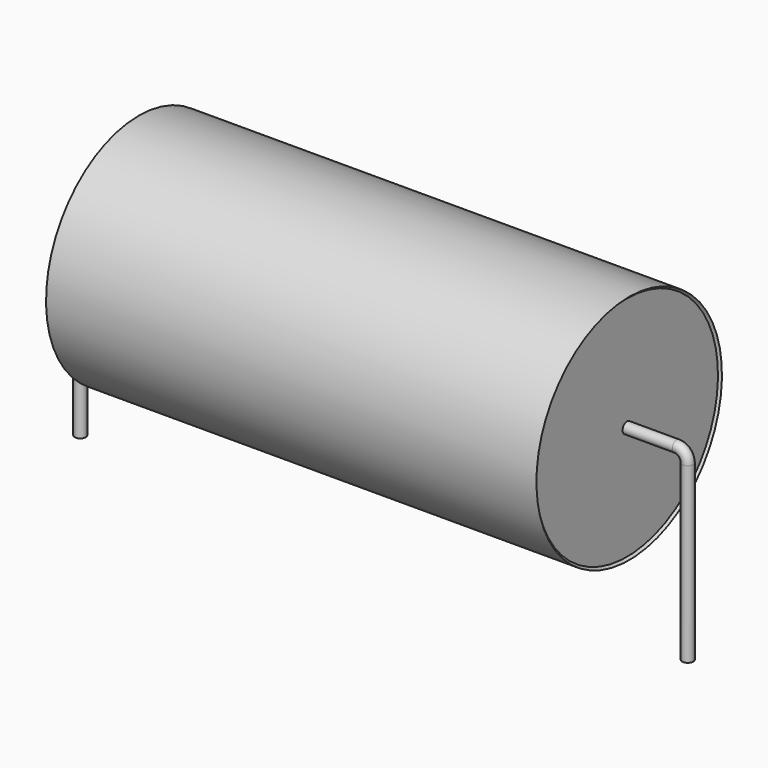
from build123d import *

# Parameters (mm, degrees)
SKETCH_R = 0.25


with BuildPart() as sweep_body:
    # Sweep: sweep along a path in Sketch001
    with BuildLine(Plane.XZ) as sweep_path:
        Line((0, -3), (0, 4.85))
        ThreePointArc((0, 4.85), (0.146445, 5.203551), (0.499995, 5.35))
        Line((0.499995, 5.35), (27, 5.35))
        ThreePointArc((27, 5.35), (27.353553, 5.203553), (27.5, 4.85))
        Line((27.5, 4.85), (27.5, -3))
    # Sketch → Sweep (sweep)
    with BuildSketch(Plane.XY.offset(-2)):
        Circle(SKETCH_R)
    sweep(path=sweep_path.line)


with BuildPart() as revolution:
    # Sketch002 → Revolution (revolve)
    with BuildSketch(Plane.XZ):
        Polygon((2.65, 10.6), (24.85, 10.6), (24.75, 10.5), (24.75, 5.35), (2.75, 5.35), (2.75, 10.5), align=None)
    revolve(axis=Axis((7.611803, 0, 5.35), (1, 0, 0)))


solid = Compound([sweep_body.part, revolution.part])
